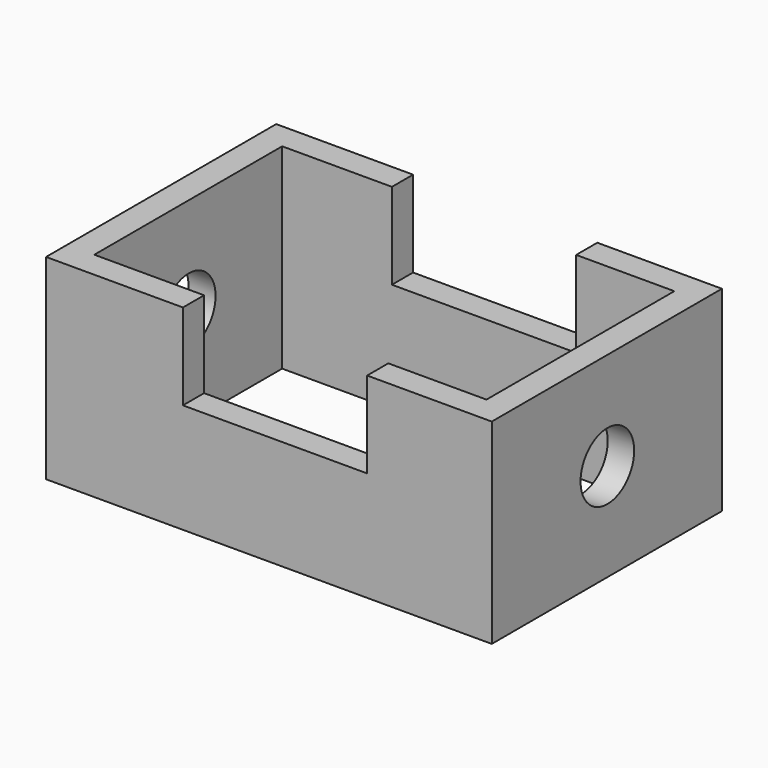
from build123d import *

# Parameters (mm, degrees)
F0_W     = 10.5373039842
F0_H     = 91.4049893618
F0_W_2   = 152.6683866978
F0_H_2   = 10.2922543883
F0_W_3   = 10.2922543883
F1_DEPTH = 76.2
F2_W     = 38.2388904691
F2_H     = 33.5443941772
F2_W_2   = 33.4795936942
F3_DEPTH = 111.9904981384
F4_R     = 13.0513622492
F5_DEPTH = 173.4989450703


with BuildPart() as f1:
    # F0 (on Top) → F1 (new body)
    with BuildSketch(Plane.XY):
        with Locations((-81.4803205431, -0.2450533211)):
            Rectangle(F0_W, F0_H)
        with Locations((0.1225247979, 50.6035685539)):
            Rectangle(F0_W_2, F0_H_2)
        with Locations((-81.4803205431, 50.6035685539)):
            Rectangle(F0_W, F0_H_2)
        with Locations((81.602845341, 50.6035685539)):
            Rectangle(F0_W_3, F0_H_2)
        with Locations((81.602845341, -0.2450533211)):
            Rectangle(F0_W_3, F0_H)
        with Locations((81.602845341, -51.0936751962)):
            Rectangle(F0_W_3, F0_H_2)
        with Locations((0.1225247979, -51.0936751962)):
            Rectangle(F0_W_2, F0_H_2)
        with Locations((-81.4803205431, -51.0936751962)):
            Rectangle(F0_W, F0_H_2)
    extrude(amount=F1_DEPTH)

    # F2 (on face) → F3 (cut, through all)
    with BuildSketch(Plane.XZ.offset(56.2398023903)):
        with Locations((19.1194452345, 59.4278029114)):
            Rectangle(F2_W, F2_H)
        with Locations((-16.7397968471, 59.4278029114)):
            Rectangle(F2_W_2, F2_H)
    extrude(amount=-F3_DEPTH, mode=Mode.SUBTRACT)

    # F4 (on face) → F5 (cut, through all)
    with BuildSketch(Plane.YZ.offset(86.7489725351)):
        with Locations((0, 38.1)):
            Circle(F4_R)
    extrude(amount=-F5_DEPTH, mode=Mode.SUBTRACT)


solid = f1.part
